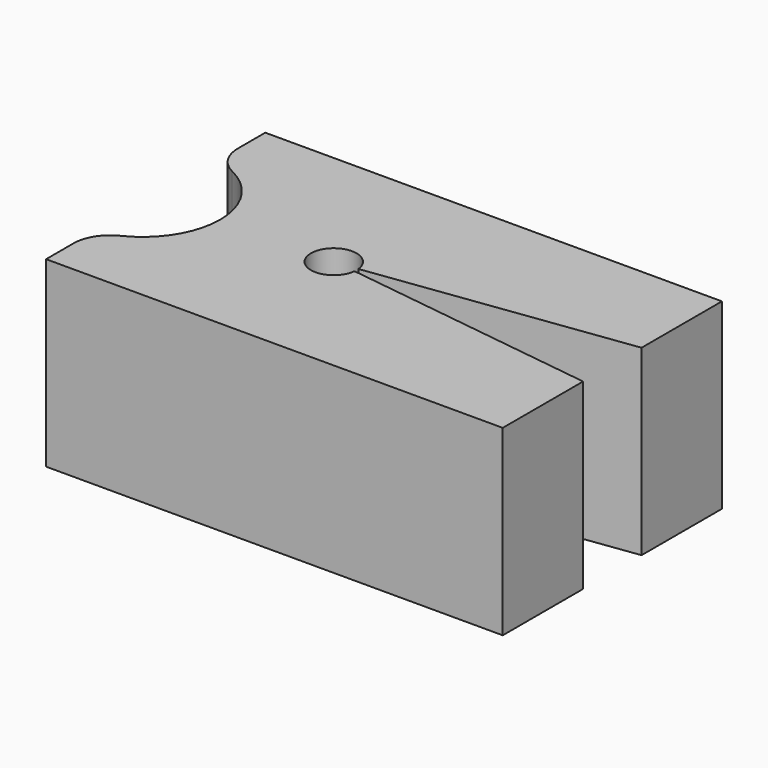
from build123d import *

# Parameters (mm, degrees)
F0_W     = 63.5
F0_H     = 38.1
F1_DEPTH = 25.4
F4_DEPTH = 38.1
F5_R     = 10.795
F6_DEPTH = 38.1
F7_R     = 5.08


with BuildPart() as f1:
    # F0 (on Top) → F1 (new body)
    with BuildSketch(Plane.XY):
        Rectangle(F0_W, F0_H)
    extrude(amount=F1_DEPTH)

    # F3 (on face) → F4 (cut)
    with BuildSketch(Plane.XY.offset(25.4)):
        with BuildLine():
            Line((-3.8278593449, -0.3362854207), (-6.35, 0))
            Line((-6.35, 0), (-3.8278593449, 0.3362854207))
            ThreePointArc((-3.8278593449, 0.3362854207), (-10.16, 0), (-3.8278593449, -0.3362854207))
        make_face()
        with BuildLine():
            Line((-3.8278593449, 0.3362854207), (-6.35, 0))
            Line((-6.35, 0), (-3.8278593449, -0.3362854207))
            ThreePointArc((-3.8278593449, -0.3362854207), (-3.81446798, -0.1683796606), (-3.81, 0))
            ThreePointArc((-3.81, 0), (-3.81446798, 0.1683796606), (-3.8278593449, 0.3362854207))
        make_face()
        with BuildLine():
            Line((31.75, 5.08), (-3.8278593449, 0.3362854207))
            ThreePointArc((-3.8278593449, 0.3362854207), (-3.81446798, 0.1683796606), (-3.81, 0))
            ThreePointArc((-3.81, 0), (-3.81446798, -0.1683796606), (-3.8278593449, -0.3362854207))
            Line((-3.8278593449, -0.3362854207), (31.75, -5.08))
            Line((31.75, -5.08), (31.75, 5.08))
        make_face()
    extrude(amount=-F4_DEPTH, mode=Mode.SUBTRACT)

    # F5 (on face) → F6 (cut)
    with BuildSketch(Plane.XY.offset(25.4)):
        with Locations((-33.5856959183, 0)):
            Circle(F5_R)
    extrude(amount=-F6_DEPTH, mode=Mode.SUBTRACT)

    # F7
    f7_edges = [f1.edges().sort_by_distance(p)[0] for p in [
        (-31.75, 10.637774, 12.7),
        (-31.75, -10.637774, 12.7),
    ]]
    fillet(f7_edges, radius=F7_R)


solid = f1.part
